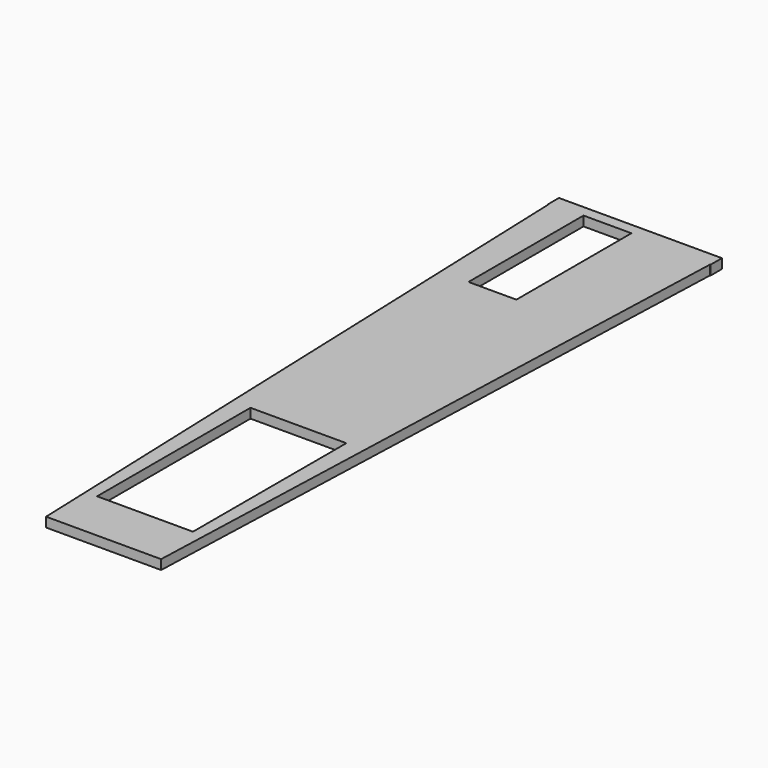
from build123d import *

# Parameters (mm, degrees)
F0_W     = 100
F0_H     = 200
F0_W_2   = 120
F0_H_2   = 21.92845
F1_DEPTH = 10


with BuildPart() as f1:
    # F0 (on Top) → F1 (new body)
    with BuildSketch(Plane.XY):
        Polygon((84.464286, -7.5), (85, -7.5), (85, 7.5), align=None)
        Polygon((60, -692.5), (84.464286, -7.5), (0, -7.5), (0, -154.242083), (-50, -154.242083), (-50, -7.5), (-84.464286, -7.5), (-60, -692.5), (-60, -670.57155), (60, -670.57155), align=None)
        with Locations((0, -538.492203)):
            Rectangle(F0_W, F0_H, mode=Mode.SUBTRACT)
        Polygon((0, -7.5), (84.464286, -7.5), (85, 7.5), (-85, 7.5), (-84.464286, -7.5), (-50, -7.5), (-50, -4.242083), (0, -4.242083), align=None)
        with Locations((0, -681.535775)):
            Rectangle(F0_W_2, F0_H_2)
        Polygon((-84.464286, -7.5), (-85, 7.5), (-85, -7.5), align=None)
    extrude(amount=F1_DEPTH)


solid = f1.part
